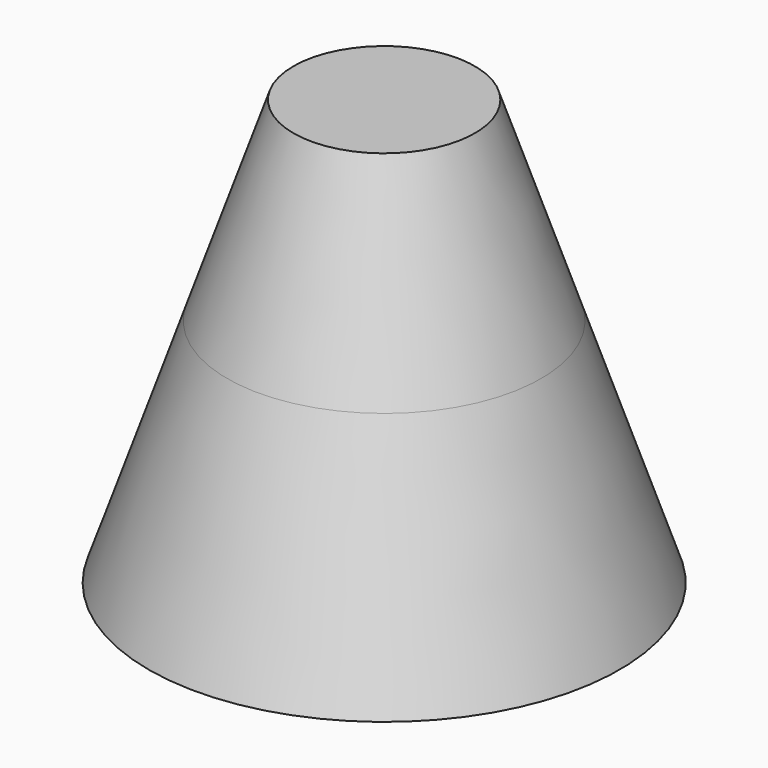
from build123d import *


with BuildPart() as f1:
    # F0 (on Front) → F1 (revolve)
    with BuildSketch(Plane.XZ):
        Polygon((-37.583013, -16.642483), (-41.327443, -27.641752), (-32.452213, -27.641752), (-32.452213, -16.642483), align=None)
        Polygon((-41.327443, -27.641752), (-45.76851, -40.687392), (-44.61989, -40.687392), (-40.459751, -28.467425), (-36.455982, -28.467425), (-32.452213, -28.467425), (-32.452213, -27.641752), align=None)
        with BuildLine():
            Line((-32.452213, -38.55152), (-32.452213, -28.467425))
            Line((-32.452213, -28.467425), (-36.455982, -28.467425))
            Line((-36.455982, -28.467425), (-36.455982, -34.577409))
            ThreePointArc((-36.455982, -34.577409), (-35.281493, -37.398035), (-32.452213, -38.55152))
        make_face()
    revolve(axis=Axis((-32.452213, 0, -25.08378), (0, 0, 1)))


solid = f1.part
